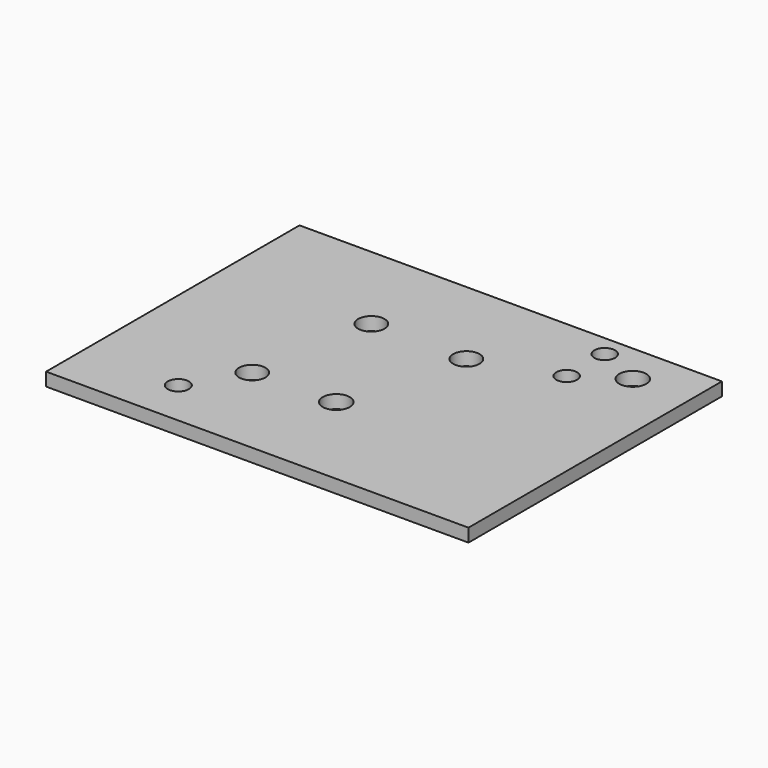
from build123d import *

# Parameters (mm, degrees)
F0_W     = 101.6
F0_H     = 76.2
F5_DEPTH = 3.175
F1_R     = 2.54
F2_R     = 3.175
F3_R     = 3.2512
F4_R     = 2.4892
F6_DEPTH = 3.176


with BuildPart() as f5:
    # F0 (on Top) → F5 (new body)
    with BuildSketch(Plane.XY):
        with Locations((50.8, 38.1)):
            Rectangle(F0_W, F0_H)
    extrude(amount=F5_DEPTH)

    # F1 (on Top) + F2 (on Top) + F3 (on Top) + F4 (on Top) → F6 (cut, through all)
    with BuildSketch(Plane.XY):
        with Locations((22.86, 11.176)):
            Circle(F1_R)
    with BuildSketch(Plane.XY):
        with Locations((30.48, 23.876)):
            Circle(F2_R)
        with Locations((35.56, 53.34)):
            Circle(F2_R)
        with Locations((58.42, 53.34)):
            Circle(F2_R)
    with BuildSketch(Plane.XY):
        with Locations((50.292, 24.384)):
            Circle(F3_R)
        with Locations((87.884, 66.548)):
            Circle(F3_R)
    with BuildSketch(Plane.XY):
        with Locations((77.47, 71.12)):
            Circle(F4_R)
        with Locations((77.47, 59.69)):
            Circle(F4_R)
    extrude(amount=F6_DEPTH, mode=Mode.SUBTRACT)


solid = f5.part
